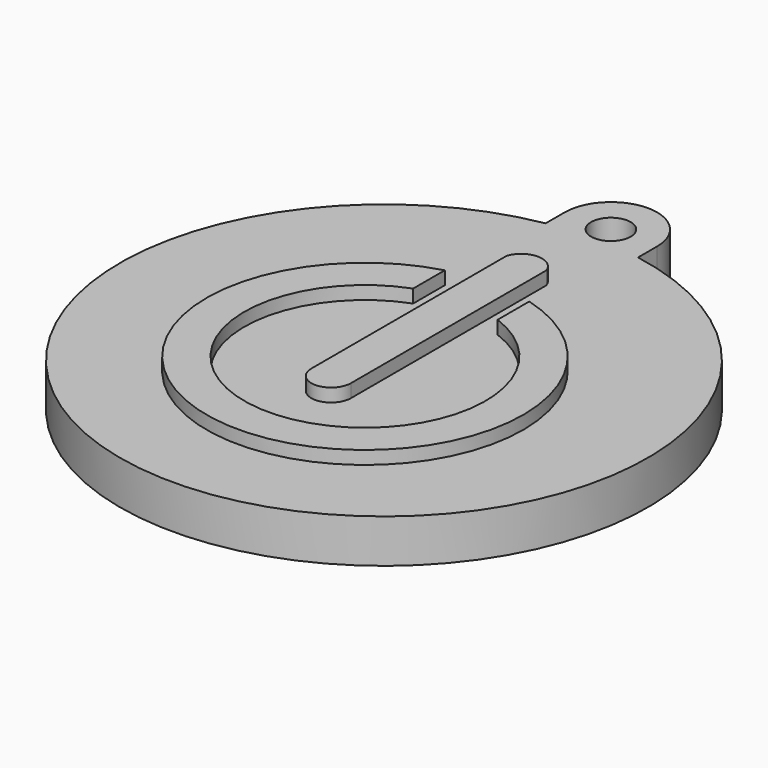
from build123d import *

# Parameters (mm, degrees)
EXTRUDE_DEPTH = 3.3
SKETCH001_R   = 1.5
POCKET_DEPTH  = 3.301
PAD_DEPTH     = 1


with BuildPart() as part:
    # Sketch → Extrude (new body)
    with BuildSketch(Plane.XY):
        with BuildLine():
            ThreePointArc((3.5, 21.5), (0, 25), (-3.5, 21.5))
            Line((-3.5, 21.5), (-3.5, 19.691369))
            ThreePointArc((-3.5, 19.691369), (0, -20), (3.5, 19.691369))
            Line((3.5, 19.691369), (3.5, 21.5))
        make_face()
    extrude(amount=EXTRUDE_DEPTH)

    # Sketch001 (on Face6 of Extrude) → Pocket (cut, through all)
    with BuildSketch(Plane.XY.offset(3.3)):
        with Locations((0, 21.5)):
            Circle(SKETCH001_R)
    extrude(amount=-POCKET_DEPTH, mode=Mode.SUBTRACT)

    # Sketch002 (on Face1 of CopyClone) → Pad (join)
    with BuildSketch(Plane.XY.offset(3.3)):
        with BuildLine():
            Line((-1.5, 13.5), (-1.5, -5))
            ThreePointArc((-1.5, -5), (0, -6.5), (1.5, -5))
            Line((1.5, 13.5), (1.5, -5))
            ThreePointArc((1.5, 13.5), (0, 14.581139), (-1.5, 13.5))
        make_face()
        with BuildLine():
            Line((-3.2, 9.765466), (-3.2, 6.765466))
            ThreePointArc((-3.2, 6.765466), (0, -10.943698), (3.2, 6.765466))
            Line((3.2, 9.765466), (3.2, 6.765466))
            ThreePointArc((-3.2, 9.765466), (0, -13.8), (3.2, 9.765466))
        make_face()
    extrude(amount=PAD_DEPTH)


solid = part.part
